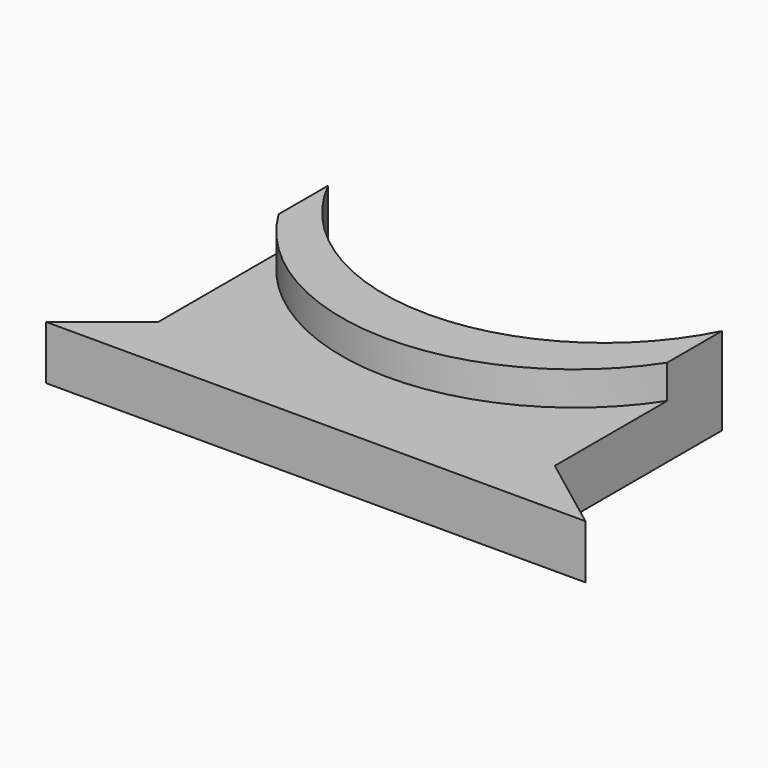
from build123d import *

# Parameters (mm, degrees)
F1_DEPTH      = 8
F3_DEPTH      = 25
F3_DEPTH_BACK = 25
F5_DEPTH      = 5


with BuildPart() as f1:
    # F0 (on Top) → F1 (new body)
    with BuildSketch(Plane.XY):
        Polygon((-45.577269, 28.661994), (-45.577269, -2.913186), (-55.726435, -10.994929), (24.339201, -10.994929), (12.874405, -2.349344), (12.874405, 28.661994), align=None)
    extrude(amount=F1_DEPTH)

    # F2 (on face) → F3 (cut, two sides)
    with BuildSketch(Plane(origin=(0, 0, 0), x_dir=(1, 0, 0), z_dir=(0, 0, -1))) as f3_sk:
        with BuildLine():
            Line((-45.577269, -28.661994), (12.874405, -28.661994))
            ThreePointArc((12.874405, -28.661994), (-16.351432, -10.650162), (-45.577269, -28.661994))
        make_face()
    extrude(amount=-F3_DEPTH, mode=Mode.SUBTRACT)
    extrude(f3_sk.sketch, amount=-F3_DEPTH_BACK, mode=Mode.SUBTRACT)

    # F4 (on face) → F5 (join)
    with BuildSketch(Plane.XY.offset(8)):
        with BuildLine():
            Line((-45.577269, 28.661994), (-45.577269, 19.454254))
            ThreePointArc((-45.577269, 19.454254), (-16.611798, 2.906171), (12.874405, 18.507497))
            Line((12.874405, 18.507497), (12.874405, 28.661994))
            ThreePointArc((12.874405, 28.661994), (-16.351432, 10.650162), (-45.577269, 28.661994))
        make_face()
    extrude(amount=F5_DEPTH)


solid = f1.part
